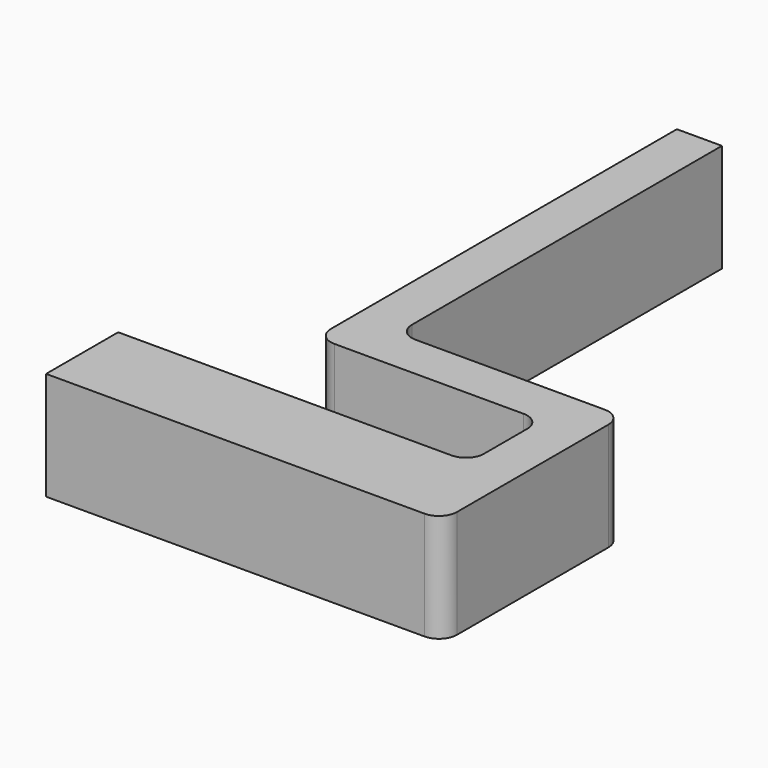
from build123d import *

# Parameters (mm, degrees)
BOX010_W     = 30
BOX010_H     = 5
BOX010_DEPTH = 12
BOX009_W     = 5
BOX009_H     = 25
BOX009_DEPTH = 12
BOX008_W     = 44
BOX008_H     = 10
BOX008_DEPTH = 12
BOX011_W     = 5
BOX011_H     = 50
BOX011_DEPTH = 12
FILLET001_R  = 2


with BuildPart() as cube010:
    # Box010 → Box010 (new body)
    with BuildSketch(Plane(origin=(54, 15, 0), x_dir=(1, 0, 0), z_dir=(0, 0, 1))):
        with Locations((15, 2.5)):
            Rectangle(BOX010_W, BOX010_H)
    extrude(amount=BOX010_DEPTH)


with BuildPart() as cube009:
    # Box009 → Box009 (new body)
    with BuildSketch(Plane(origin=(79, -5, 0), x_dir=(1, 0, 0), z_dir=(0, 0, 1))):
        with Locations((2.5, 12.5)):
            Rectangle(BOX009_W, BOX009_H)
    extrude(amount=BOX009_DEPTH)


with BuildPart() as cube008:
    # Box008 → Box008 (new body)
    with BuildSketch(Plane(origin=(40, -5, 0), x_dir=(1, 0, 0), z_dir=(0, 0, 1))):
        with Locations((22, 5)):
            Rectangle(BOX008_W, BOX008_H)
    extrude(amount=BOX008_DEPTH)


with BuildPart() as fillet001:
    # Box011 → Box011 (new body)
    with BuildSketch(Plane(origin=(54, 15, 0), x_dir=(1, 0, 0), z_dir=(0, 0, 1))):
        with Locations((2.5, 25)):
            Rectangle(BOX011_W, BOX011_H)
    extrude(amount=BOX011_DEPTH)

    # Fusion002006: union Cube010, Cube009, Cube008
    add(cube010.part)
    add(cube009.part)
    add(cube008.part)

    # Fillet001
    fillet001_edges = [fillet001.edges().sort_by_distance(p)[0] for p in [
        (79, 15, 6),
        (79, 5, 6),
        (54, 15, 6),
        (59, 20, 6),
        (84, 20, 6),
        (84, -5, 6),
    ]]
    fillet(fillet001_edges, radius=FILLET001_R)


solid = fillet001.part
